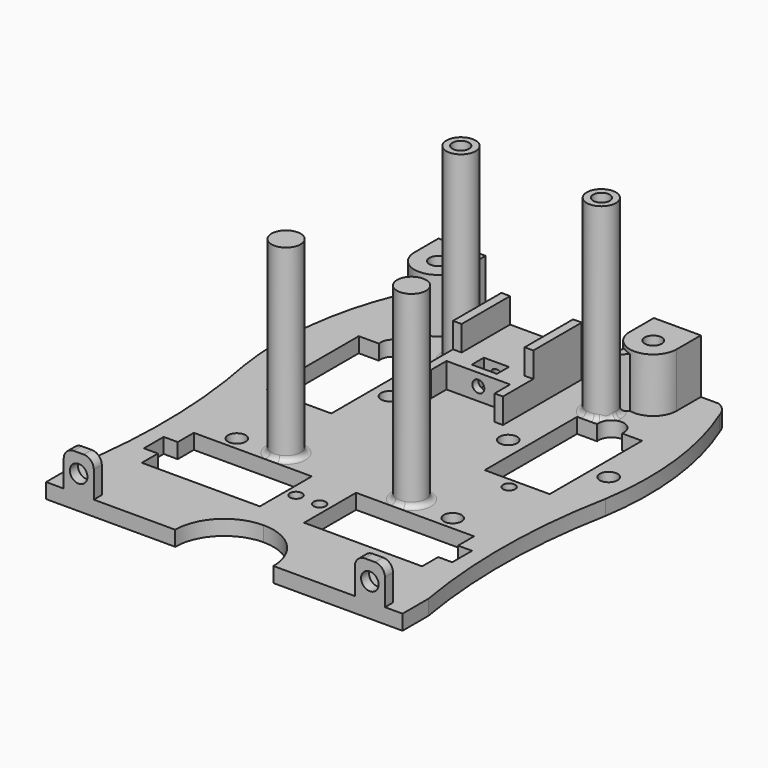
from build123d import *

# Parameters (mm, degrees)
SKETCH090_R        = 1.746092
PAD055_DEPTH       = 2
SKETCH089_R        = 1.746092
PAD054_DEPTH       = 2
SKETCH033_R        = 1.2
SKETCH033_R_2      = 1.764044
PAD020_DEPTH       = 3
PAD029_DEPTH       = 10.8
SKETCH046_R        = 1.7
POCKET003022_DEPTH = 20
PAD035_DEPTH       = 5
SKETCH057_W        = 1.72567
SKETCH057_H        = 12.0583
PAD036_DEPTH       = 5
SKETCH059_R        = 1.2
POCKET003030_DEPTH = 20
SKETCH061_W        = 5
SKETCH061_H        = 3
POCKET003031_DEPTH = 5
SKETCH069_R        = 2.9
PAD041_DEPTH       = 37.5
SKETCH070_R        = 1.657207
POCKET003036_DEPTH = 40
PAD056_DEPTH       = 10
FILLET_R           = 1


with BuildPart() as raspy_hole003:
    # Sketch090 → Pad055 (new body)
    with BuildSketch(Plane(origin=(15, 0, 1.26), x_dir=(1, 0, 0), z_dir=(0, -1, 0))):
        with BuildLine():
            Line((11.012514, -1.25328), (11.012514, 6.997142))
            ThreePointArc((13.000101, 8.992943), (11.594169, 8.405485), (11.012514, 6.997142))
            Line((13.000101, 8.992943), (15, 9.001192))
            ThreePointArc((17, 7.009425), (16.413712, 8.420731), (15, 9.001192))
            Line((17, 7.009425), (17, 4))
            Line((17, 4), (17, -1.25328))
            Line((11.012514, -1.25328), (17, -1.25328))
        make_face()
        with Locations((13.988471, 5.299093)):
            Circle(SKETCH090_R, mode=Mode.SUBTRACT)
    extrude(amount=-PAD055_DEPTH)


with BuildPart() as raspberry_holes:
    # Sketch089 → Pad054 (new body)
    with BuildSketch(Plane(origin=(-43, 0, 1.26), x_dir=(1, 0, 0), z_dir=(0, -1, 0))):
        with BuildLine():
            Line((11.012514, -1.25328), (11.012514, 6.997142))
            ThreePointArc((13.000101, 8.992943), (11.594169, 8.405485), (11.012514, 6.997142))
            Line((13.000101, 8.992943), (15, 9.001192))
            ThreePointArc((17, 7.009425), (16.413712, 8.420731), (15, 9.001192))
            Line((17, 7.009425), (17, 4))
            Line((17, 4), (17, -1.25328))
            Line((11.012514, -1.25328), (17, -1.25328))
        make_face()
        with Locations((13.988471, 5.299093)):
            Circle(SKETCH089_R, mode=Mode.SUBTRACT)
    extrude(amount=-PAD054_DEPTH)

    # Fusion007037: union raspy_hole003
    add(raspy_hole003.part)


with BuildPart() as clone_of_half_base_support_leg_hole001:
    # Sketch033 → Pad020 (new body)
    with BuildSketch(Plane.XY):
        with BuildLine():
            Line((35.5, 0), (35.5, 6.415183))
            ThreePointArc((35.988725, 49.947313), (33.757449, 28.203554), (35.5, 6.415183))
            ThreePointArc((35.988725, 49.947313), (36.349691, 66.784913), (32.171358, 83.099833))
            ThreePointArc((32.171358, 83.099833), (31.269586, 84.821896), (29.723476, 86.000133))
            Line((12.328447, 86.000133), (29.723476, 86.000133))
            ThreePointArc((0, 81.7771), (6.566085, 82.715448), (12.328447, 86.000133))
            Line((0, 81.7771), (0, 9.7771))
            ThreePointArc((9.7771, 0), (6.913454, 6.913454), (0, 9.7771))
            Line((35.5, 0), (9.7771, 0))
        make_face()
        with Locations((2.350144, 20.802189)):
            Circle(SKETCH033_R, mode=Mode.SUBTRACT)
        with Locations((21.7765, 43.6923)):
            Circle(SKETCH033_R, mode=Mode.SUBTRACT)
        with Locations((11.788759, 55.9729)):
            Circle(SKETCH033_R_2, mode=Mode.SUBTRACT)
        with Locations((31.788759, 55.9729)):
            Circle(SKETCH033_R_2, mode=Mode.SUBTRACT)
        with Locations((21.493771, 30)):
            Circle(SKETCH033_R_2, mode=Mode.SUBTRACT)
        Polygon((27.914344, 27.302489), (4.407844, 27.302489), (4.407844, 14.365089), (27.914344, 14.365089), (27.914344, 18.365089), (30.714344, 18.365089), (30.714344, 23.302489), (27.914344, 23.302489), align=None, mode=Mode.SUBTRACT)
        with BuildLine():
            Line((15.2762, 68.75), (15.2762, 45.75))
            Line((15.2762, 45.75), (28.2136, 45.75))
            Line((28.2136, 45.75), (28.2136, 68.75))
            Line((24.2136, 68.75), (28.2136, 68.75))
            ThreePointArc((24.2136, 68.75), (21.7449, 71.728653), (19.2762, 68.75))
            Line((15.2762, 68.75), (19.2762, 68.75))
        make_face(mode=Mode.SUBTRACT)
    extrude(amount=PAD020_DEPTH)

    # Sketch045 → Pad029 (new body)
    with BuildSketch(Plane.XY.offset(3)):
        with BuildLine():
            Line((16.768312, 79.999998), (16.768312, 86))
            Line((16.768312, 86), (26.122612, 86))
            Line((26.122612, 79.999999), (26.122612, 86))
            ThreePointArc((16.768312, 79.999998), (21.445462, 75.32285), (26.122612, 79.999999))
        make_face()
    extrude(amount=PAD029_DEPTH)

    # Sketch046 → Pocket003022 (cut)
    with BuildSketch(Plane.XY.offset(13.8)):
        with Locations((21.445462, 80)):
            Circle(SKETCH046_R)
    extrude(amount=-POCKET003022_DEPTH, mode=Mode.SUBTRACT)


with BuildPart() as v6_base_pillars_fillet:
    # Part__Mirroring: instance of Clone of half_base_support_leg_hole001
    add(clone_of_half_base_support_leg_hole001.part.mirror(Plane(origin=(0, 0, 0), x_dir=(0, -1, 0), z_dir=(1, 0, 0))))

    # Fusion007009: union Clone of half_base_support_leg_hole001
    add(clone_of_half_base_support_leg_hole001.part)

    # Fusion007038: union raspberry_holes
    add(raspberry_holes.part)

    # Sketch056 → Pad035 (new body)
    with BuildSketch(Plane.XY.offset(3)):
        Polygon((-8, 79), (-8, 59.389305), (-6.338902, 59.389305), (-6.338902, 63.25), (6.337551, 63.25), (6.337551, 59.389046), (8, 59.389046), (8, 79), align=None)
    extrude(amount=PAD035_DEPTH)

    # Sketch057 → Pad036 (new body)
    with BuildSketch(Plane.XY.offset(8)):
        with Locations((7.137165, 72.97085)):
            Rectangle(SKETCH057_W, SKETCH057_H)
        with Locations((-7.137165, 72.97085)):
            Rectangle(SKETCH057_W, SKETCH057_H)
    extrude(amount=PAD036_DEPTH)

    # Sketch059 → Pocket003030 (cut)
    with BuildSketch(Plane.XZ.offset(-59.389046)):
        with Locations((0, 5.597982)):
            Circle(SKETCH059_R)
    extrude(amount=-POCKET003030_DEPTH, mode=Mode.SUBTRACT)

    # Sketch061 → Pocket003031 (cut)
    with BuildSketch(Plane.XY.offset(8)):
        with Locations((0, 66.25)):
            Rectangle(SKETCH061_W, SKETCH061_H)
    extrude(amount=-POCKET003031_DEPTH, mode=Mode.SUBTRACT)

    # Sketch069 → Pad041 (new body)
    with BuildSketch(Plane.XY.offset(3)):
        with Locations((-10.854947, 72.5)):
            Circle(SKETCH069_R)
        with Locations((17.101204, 72.5)):
            Circle(SKETCH069_R)
        with Locations((-12.5, 31)):
            Circle(SKETCH069_R)
        with Locations((12.5, 31)):
            Circle(SKETCH069_R)
    extrude(amount=PAD041_DEPTH)

    # Sketch070 → Pocket003036 (cut)
    with BuildSketch(Plane.XY.offset(40.5)):
        with Locations((-10.89591, 72.493835)):
            Circle(SKETCH070_R)
        with Locations((17.128902, 72.5)):
            Circle(SKETCH070_R)
    extrude(amount=-POCKET003036_DEPTH, mode=Mode.SUBTRACT)

    # Sketch091 → Pad056 (new body)
    with BuildSketch(Plane.XY.offset(3)):
        with BuildLine():
            ThreePointArc((17.442731, 74.316404), (18.586736, 76.049678), (18.153674, 78.080796))
            Line((18.153674, 78.080796), (22.334578, 76.496023))
            ThreePointArc((22.334578, 76.496023), (20.202599, 75.172639), (18.885148, 73.036989))
            ThreePointArc((18.885148, 73.036989), (18.38283, 73.923475), (17.442731, 74.316404))
        make_face()
    extrude(amount=PAD056_DEPTH)

    # Fillet
    fillet_edges = [v6_base_pillars_fillet.edges().sort_by_distance(p)[0] for p in [
        (-13.754947, 72.5, 3),
        (14.678563, 70.906008, 3),
        (9.6, 31, 3),
        (-15.4, 31, 3),
    ]]
    fillet(fillet_edges, radius=FILLET_R)


solid = v6_base_pillars_fillet.part
